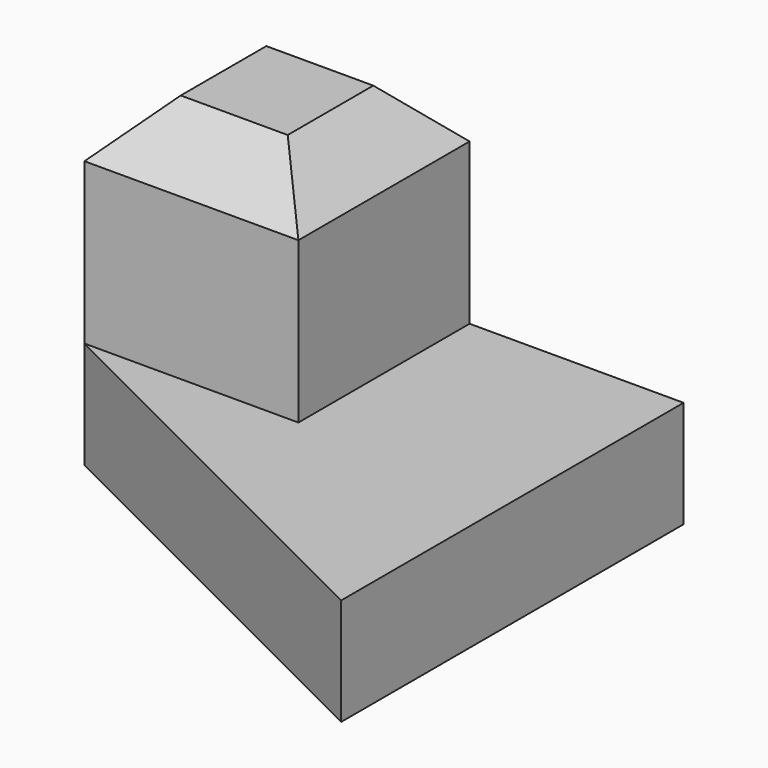
from build123d import *

# Parameters (mm, degrees)
F1_DEPTH = 10
F2_W     = 20
F2_H     = 20
F3_DEPTH = 20
F4_SIZE  = 5


with BuildPart() as f1:
    # F0 (on Top) → F1 (new body)
    with BuildSketch(Plane.XY):
        Polygon((0, 20), (0, 0), (40, -20), (40, 20), align=None)
    extrude(amount=F1_DEPTH)

    # F2 (on face) → F3 (join)
    with BuildSketch(Plane.XY.offset(10)):
        with Locations((10, 10)):
            Rectangle(F2_W, F2_H)
    extrude(amount=F3_DEPTH)

    # F4
    f4_edges = [f1.edges().sort_by_distance(p)[0] for p in [
        (0, 10, 30),
        (10, 0, 30),
        (20, 10, 30),
        (10, 20, 30),
    ]]
    chamfer(f4_edges, length=F4_SIZE)


solid = f1.part
